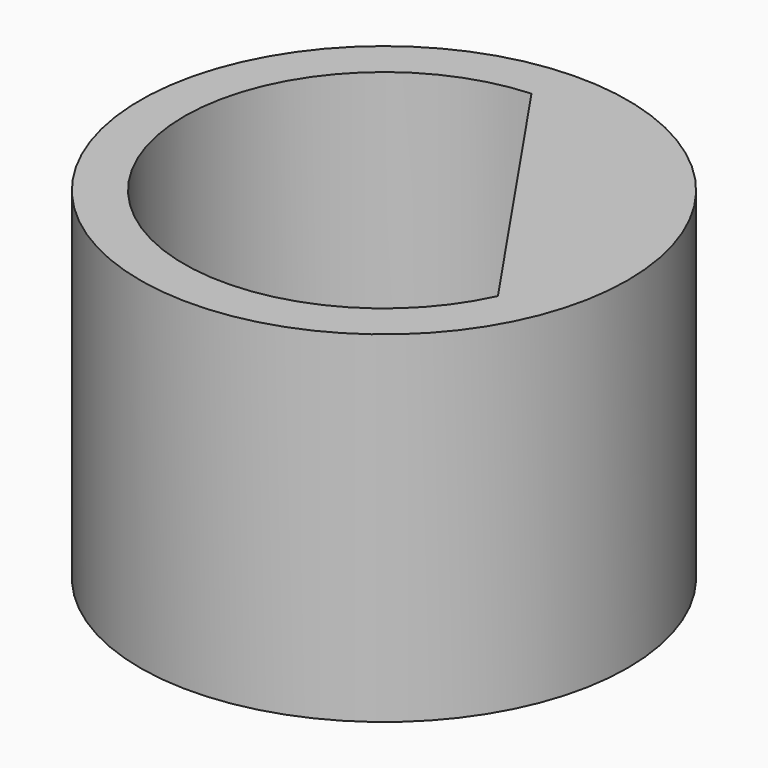
from build123d import *

# Parameters (mm, degrees)
F0_R     = 5
F1_DEPTH = 7
F3_DEPTH = 7.001


with BuildPart() as f1:
    # F0 (on Top) → F1 (new body)
    with BuildSketch(Plane.XY):
        Circle(F0_R)
    extrude(amount=F1_DEPTH)

    # F2 (on face) → F3 (cut, through all)
    with BuildSketch(Plane.XY.offset(7)):
        with BuildLine():
            Line((1.735315, 1.182659), (-0.247815, 4.092504))
            ThreePointArc((-0.247815, 4.092504), (-3.680977, 1.805659), (-3.387996, -2.309001))
            Line((-3.387996, -2.309001), (1.735315, 1.182659))
        make_face()
        with BuildLine():
            ThreePointArc((-3.387996, -2.309001), (0.334554, -4.086328), (3.718444, -1.727186))
            Line((3.718444, -1.727186), (1.735315, 1.182659))
            Line((1.735315, 1.182659), (-3.387996, -2.309001))
        make_face()
    extrude(amount=-F3_DEPTH, mode=Mode.SUBTRACT)


solid = f1.part
